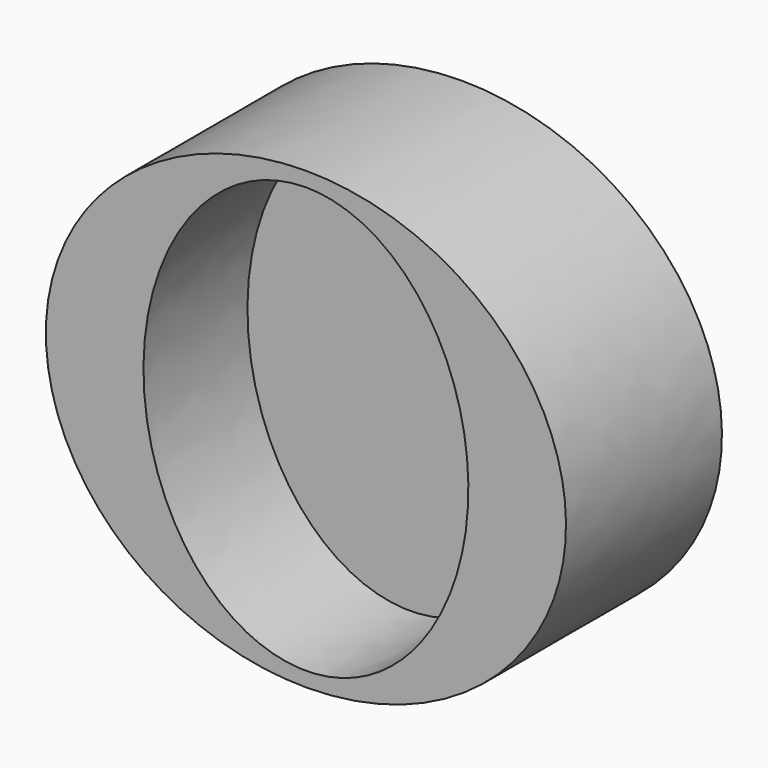
from build123d import *

# Parameters (mm, degrees)
F1_DEPTH = 76.2
F3_DEPTH = 50.8


with BuildPart() as f1:
    # F0 (on Front) → F1 (new body)
    with BuildSketch(Plane.XZ):
        with BuildLine():
            add(Edge.make_bspline(
                [(0, 88.9), (-176.076262, 88.9), (-88.038131, -44.45), (0, -177.8), (88.038131, -44.45), (176.076262, 88.9), (0, 88.9)],
                knots=[4.712389, 4.712389, 4.712389, 6.806784, 6.806784, 8.901179, 8.901179, 10.995574, 10.995574, 10.995574], degree=2, weights=[1, 0.5, 1, 0.5, 1, 0.5, 1]))
        make_face()
    extrude(amount=F1_DEPTH)

    # F2 (on face) → F3 (cut)
    with BuildSketch(Plane.XZ.offset(76.2)):
        with BuildLine():
            add(Edge.make_bspline(
                [(0, 83.190041), (-109.985226, 83.190041), (-54.992613, -41.59502), (0, -166.380081), (54.992613, -41.59502), (109.985226, 83.190041), (0, 83.190041)],
                knots=[0, 0, 0, 2.094395, 2.094395, 4.18879, 4.18879, 6.283185, 6.283185, 6.283185], degree=2, weights=[1, 0.5, 1, 0.5, 1, 0.5, 1]))
        make_face()
    extrude(amount=-F3_DEPTH, mode=Mode.SUBTRACT)


solid = f1.part
